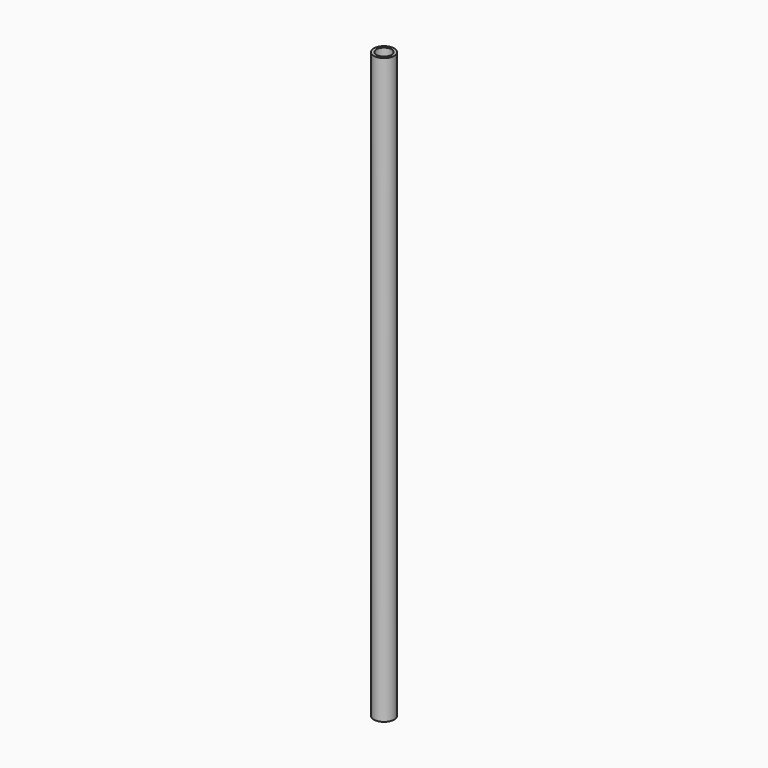
from build123d import *

# Parameters (mm, degrees)
F1_R     = 10.668
F1_R_2   = 7.874
F2_DEPTH = 609.6


with BuildPart() as f2:
    # F1 (on face) → F2 (new body)
    with BuildSketch(Plane.XY):
        with Locations((72.060592, 47.027521)):
            Circle(F1_R)
        with Locations((72.060592, 47.027521)):
            Circle(F1_R_2, mode=Mode.SUBTRACT)
    extrude(amount=-F2_DEPTH)


solid = f2.part
